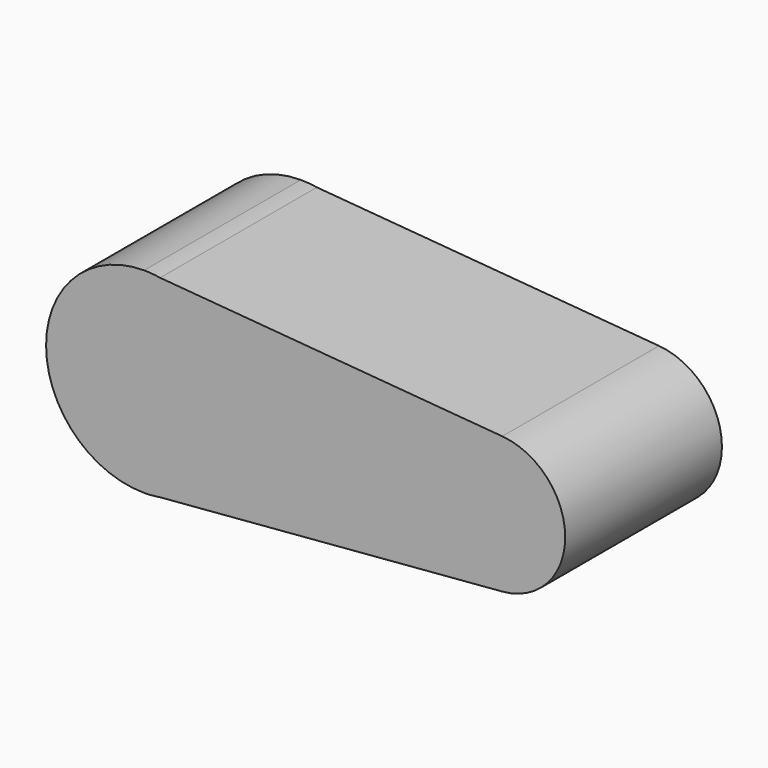
from build123d import *

# Parameters (mm, degrees)
F1_DEPTH = 50


with BuildPart() as f1:
    # F0 (on Front) → F1 (new body)
    with BuildSketch(Plane.XZ):
        with BuildLine():
            Line((91.4418067738, 17.4405043857), (4.1054428346, 24.6606029758))
            ThreePointArc((4.1054428346, 24.6606029758), (19.0740146648, 16.1611251022), (25, 0))
            ThreePointArc((25, 0), (19.0740146648, -16.1611251022), (4.1054428346, -24.6606029758))
            Line((4.1054428346, -24.6606029758), (91.4418067738, -17.4405043857))
            ThreePointArc((91.4418067738, -17.4405043857), (72.5, 0), (91.4418067738, 17.4405043857))
        make_face()
        with BuildLine():
            ThreePointArc((4.1054428346, 24.6606029758), (2.0597239626, 24.9150062653), (0, 25))
            Line((0, 25), (4.1054428346, 24.6606029758))
        make_face()
        with BuildLine():
            Line((4.1054428346, -24.6606029758), (0, -25))
            ThreePointArc((0, -25), (2.0597239626, -24.9150062653), (4.1054428346, -24.6606029758))
        make_face()
        with BuildLine():
            ThreePointArc((107.5, 0), (102.8740362463, 11.8536572723), (91.4418067738, 17.4405043857))
            ThreePointArc((91.4418067738, 17.4405043857), (72.5, 0), (91.4418067738, -17.4405043857))
            ThreePointArc((91.4418067738, -17.4405043857), (102.8740362463, -11.8536572723), (107.5, 0))
        make_face()
        with BuildLine():
            Line((4.1054428346, 24.6606029758), (0, 25))
            ThreePointArc((0, 25), (-25, 0), (0, -25))
            Line((0, -25), (4.1054428346, -24.6606029758))
            ThreePointArc((4.1054428346, -24.6606029758), (19.0740146648, -16.1611251022), (25, 0))
            ThreePointArc((25, 0), (19.0740146648, 16.1611251022), (4.1054428346, 24.6606029758))
        make_face()
    extrude(amount=F1_DEPTH)


solid = f1.part
